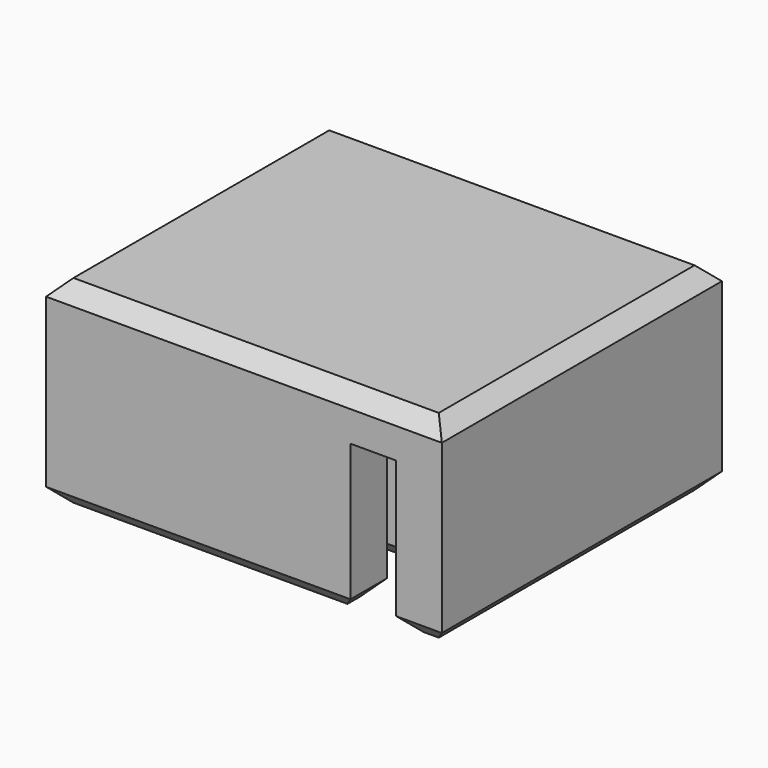
from build123d import *

# Parameters (mm, degrees)
CYLINDER001_R     = 2.1
CYLINDER001_DEPTH = 10
BOX004_W          = 16
BOX004_H          = 6
BOX004_DEPTH      = 11
BOX003_W          = 9
BOX003_H          = 11
BOX003_DEPTH      = 11
BOX002_W          = 22
BOX002_H          = 3
BOX002_DEPTH      = 11
BOX001_W          = 3
BOX001_H          = 25
BOX001_DEPTH      = 11
CYLINDER_R        = 2
CYLINDER_DEPTH    = 10
BOX_W             = 26
BOX_H             = 13
BOX_DEPTH         = 23
BOX_ROLL_ANGLE    = 90
CHAMFER_SIZE      = 1
CHAMFER001_SIZE   = 1
CHAMFER002_SIZE   = 1


with BuildPart() as cylinder001:
    # Cylinder001 → Cylinder001 (new body)
    with BuildSketch(Plane(origin=(5, -5, -5), x_dir=(1, 0, 0), z_dir=(0, 0, 1))):
        Circle(CYLINDER001_R)
    extrude(amount=CYLINDER001_DEPTH)


with BuildPart() as cube004:
    # Box004 → Box004 (new body)
    with BuildSketch(Plane(origin=(2, -15, -1), x_dir=(1, 0, 0), z_dir=(0, 0, 1))):
        with Locations((8, 3)):
            Rectangle(BOX004_W, BOX004_H)
    extrude(amount=BOX004_DEPTH)


with BuildPart() as cube003:
    # Box003 → Box003 (new body)
    with BuildSketch(Plane(origin=(9, -13, -1), x_dir=(1, 0, 0), z_dir=(0, 0, 1))):
        with Locations((4.5, 5.5)):
            Rectangle(BOX003_W, BOX003_H)
    extrude(amount=BOX003_DEPTH)


with BuildPart() as cube002:
    # Box002 → Box002 (new body)
    with BuildSketch(Plane(origin=(-1, -20, -1), x_dir=(1, 0, 0), z_dir=(0, 0, 1))):
        with Locations((11, 1.5)):
            Rectangle(BOX002_W, BOX002_H)
    extrude(amount=BOX002_DEPTH)


with BuildPart() as cube001:
    # Box001 → Box001 (new body)
    with BuildSketch(Plane(origin=(20, -24, -1), x_dir=(1, 0, 0), z_dir=(0, 0, 1))):
        with Locations((1.5, 12.5)):
            Rectangle(BOX001_W, BOX001_H)
    extrude(amount=BOX001_DEPTH)


with BuildPart() as cylinder:
    # Cylinder → Cylinder (new body)
    with BuildSketch(Plane(origin=(5, -5, -5), x_dir=(1, 0, 0), z_dir=(0, 0, 1))):
        Circle(CYLINDER_R)
    extrude(amount=CYLINDER_DEPTH)


with BuildPart() as cut005:
    # Box → Box (new body)
    with BuildSketch(Plane.XY):
        with Locations((13, 6.5)):
            Rectangle(BOX_W, BOX_H)
    extrude(amount=BOX_DEPTH)


with BuildPart() as cut005_1:
    # Box roll: moved
    add(cut005.part.rotate(Axis((0, 0, 0), (1, 0, 0)), BOX_ROLL_ANGLE))


with BuildPart() as cut005_2:
    # Box placement: moved
    add(cut005_1.part)

    # Cut: cut Cylinder
    add(cylinder.part, mode=Mode.SUBTRACT)

    # Cut001: cut Cube001
    add(cube001.part, mode=Mode.SUBTRACT)

    # Cut002: cut Cube002
    add(cube002.part, mode=Mode.SUBTRACT)

    # Cut003: cut Cube003
    add(cube003.part, mode=Mode.SUBTRACT)

    # Cut004: cut Cube004
    add(cube004.part, mode=Mode.SUBTRACT)

    # Chamfer
    chamfer_edges = [cut005_2.edges().sort_by_distance(p)[0] for p in [
        (20, -8.5, 0),
        (10, -17, 0),
        (10, -20, 0),
        (20, -21.5, 0),
        (23, -11.5, 0),
    ]]
    chamfer(chamfer_edges, length=CHAMFER_SIZE)

    # Chamfer001
    chamfer001_edges = [cut005_2.edges().sort_by_distance(p)[0] for p in [
        (0, -8, 0),
        (0, -22, 0),
        (9.5, 0, 0),
        (25, 0, 0),
        (25, -23, 0),
        (9.5, -23, 0),
        (26, -11.5, 0),
    ]]
    chamfer(chamfer001_edges, length=CHAMFER001_SIZE)

    # Chamfer002
    chamfer002_edges = [cut005_2.edges().sort_by_distance(p)[0] for p in [
        (0, -11.5, 13),
        (13, 0, 13),
        (26, -11.5, 13),
        (13, -23, 13),
    ]]
    chamfer(chamfer002_edges, length=CHAMFER002_SIZE)

    # Cut005: cut Cylinder001
    add(cylinder001.part, mode=Mode.SUBTRACT)


solid = cut005_2.part
